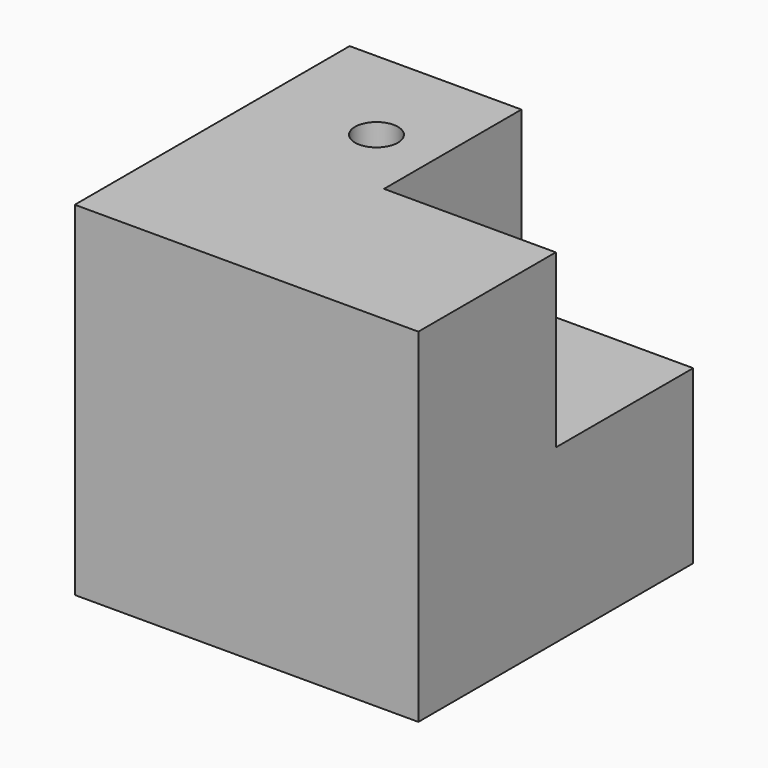
from build123d import *

# Parameters (mm, degrees)
F0_W     = 101.6
F0_H     = 101.6
F1_DEPTH = 101.6
F2_R     = 6.35
F3_DEPTH = 101.6
F4_W     = 50.8
F4_H     = 50.8
F5_DEPTH = 50.8


with BuildPart() as f1:
    # F0 (on Front) → F1 (new body)
    with BuildSketch(Plane.XZ):
        with Locations((-50.8, 50.8)):
            Rectangle(F0_W, F0_H)
    extrude(amount=F1_DEPTH)

    # F2 (on face) → F3 (cut)
    with BuildSketch(Plane.XY.offset(101.6)):
        with Locations((-69.063447, -30.745214)):
            Circle(F2_R)
    extrude(amount=-F3_DEPTH, mode=Mode.SUBTRACT)

    # F4 (on face) → F5 (cut)
    with BuildSketch(Plane.XY.offset(101.6)):
        with Locations((-25.4, -25.4)):
            Rectangle(F4_W, F4_H)
    extrude(amount=-F5_DEPTH, mode=Mode.SUBTRACT)


solid = f1.part
